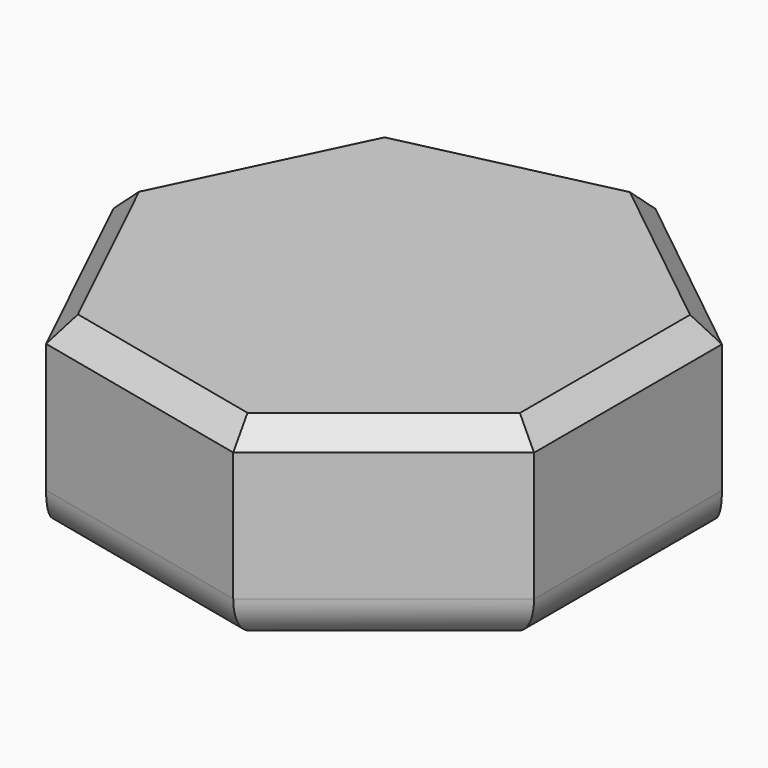
from build123d import *

# Parameters (mm, degrees)
F1_DEPTH = 21.844
F2_SIZE  = 2.54
F3_R     = 5.08


with BuildPart() as f1:
    # F0 (on Top) → F1 (new body)
    with BuildSketch(Plane.XY):
        Polygon((26.936827, -12.972092), (26.936827, 12.972092), (6.652847, 29.148027), (-18.640863, 23.374903), (-29.897623, 0), (-18.640863, -23.374903), (6.652847, -29.148027), align=None)
    extrude(amount=F1_DEPTH)

    # F2
    f2_edges = [f1.edges().sort_by_distance(p)[0] for p in [
        (26.936827, 0, 21.844),
        (16.794837, -21.06006, 21.844),
        (-5.994008, -26.261465, 21.844),
        (-24.269243, -11.687451, 21.844),
        (-24.269243, 11.687451, 21.844),
        (-5.994008, 26.261465, 21.844),
        (16.794837, 21.06006, 21.844),
    ]]
    chamfer(f2_edges, length=F2_SIZE)

    # F3
    f3_edges = [f1.edges().sort_by_distance(p)[0] for p in [
        (16.794837, -21.06006, 0),
        (26.936827, 0, 0),
        (-5.994008, -26.261465, 0),
    ]]
    fillet(f3_edges, radius=F3_R)


solid = f1.part
